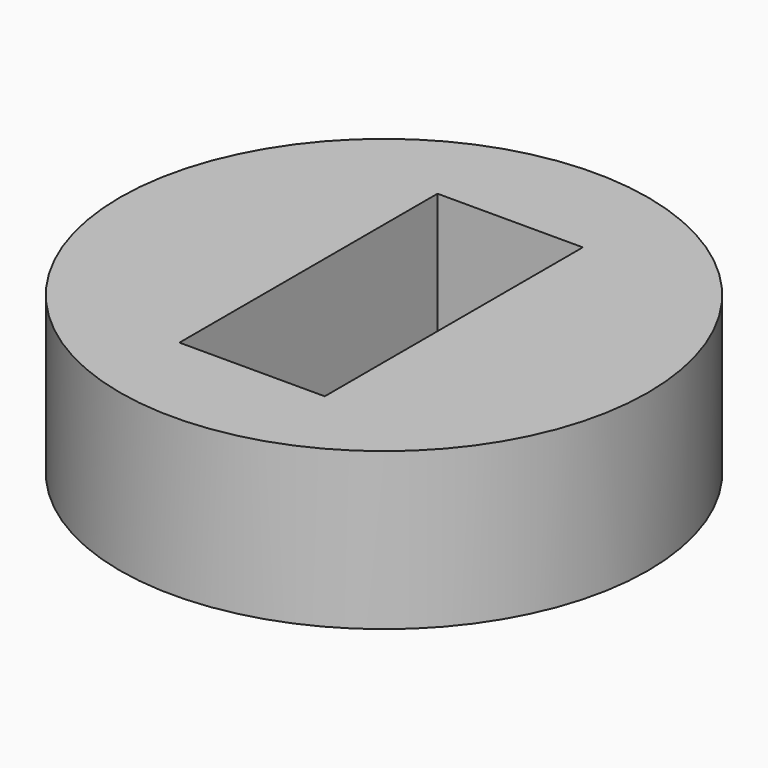
from build123d import *

# Parameters (mm, degrees)
F3_D     = 6.35
F4_W     = 60.513176
F4_H     = 134.324468
F4_R     = 3.175
F5_DEPTH = 65.258862


with BuildPart() as f1:
    # F0 (on Front) → F1 (revolve)
    with BuildSketch(Plane.XZ):
        Polygon((-7.151507, 0), (23.463517, 0), (23.463517, 65.257862), (-86.5217, 65.257862), (-86.5217, 0), align=None)
    revolve(axis=Axis((-86.5217, 0, 32.628931), (0, 0, 1)))

    # F3 (through all)
    with Locations(Plane(origin=(0, 0, 0), x_dir=(1, 0, 0), z_dir=(0, 0, -1))):
        with Locations((-90.931758, 0)):
            Hole(F3_D / 2)

    # F4 (on face) → F5 (cut, through all)
    with BuildSketch(Plane.XY.offset(65.257862)):
        with Locations((-87.257598, -0.581134)):
            Rectangle(F4_W, F4_H)
        with Locations((-90.931758, 0)):
            Circle(F4_R, mode=Mode.SUBTRACT)
    extrude(amount=-F5_DEPTH, mode=Mode.SUBTRACT)


solid = f1.part
